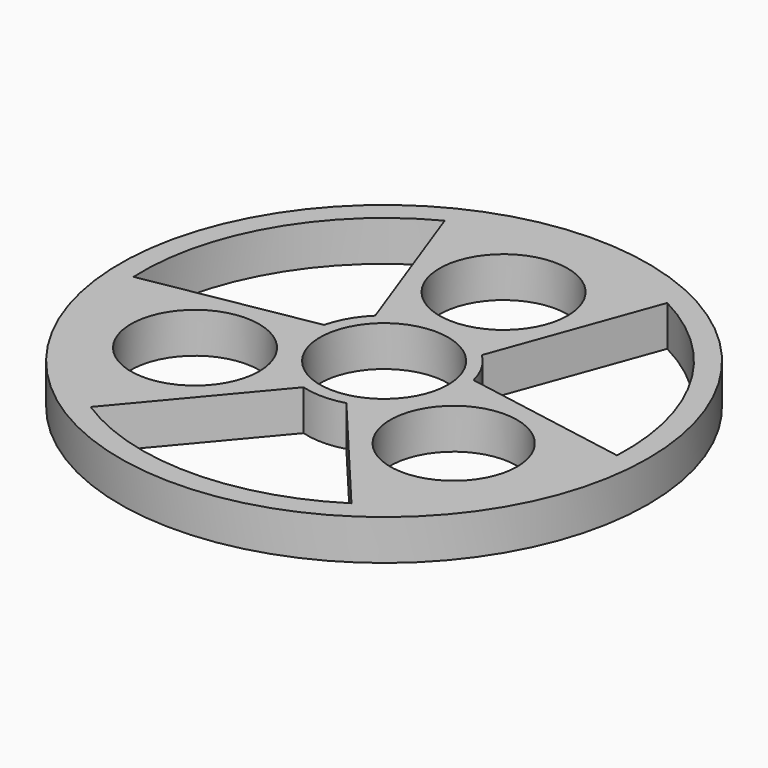
from build123d import *

# Parameters (mm, degrees)
F0_R     = 11.1
F0_R_2   = 10.983308
F1_DEPTH = 7
F2_R     = 45.72
F2_R_2   = 41.91
F3_DEPTH = 7


with BuildPart() as f1:
    # F0 (on Top) → F1 (new body)
    with BuildSketch(Plane.XY):
        with BuildLine():
            ThreePointArc((12.948403, 3.187646), (11.548449, 6.6675), (9.234784, 9.619823))
            Line((9.234784, 9.619823), (19.675505, 38.305468))
            ThreePointArc((19.675505, 38.305468), (0, 43.586091), (-19.675505, 38.305468))
            Line((-19.675505, 38.305468), (-9.234784, 9.619823))
            ThreePointArc((-9.234784, 9.619823), (-11.548449, 6.6675), (-12.948403, 3.187646))
            Line((-12.948403, 3.187646), (-43.011261, -2.113247))
            ThreePointArc((-43.011261, -2.113247), (-37.746662, -21.793046), (-23.335756, -36.192221))
            Line((-23.335756, -36.192221), (-3.713619, -12.807469))
            ThreePointArc((-3.713619, -12.807469), (0, -13.335), (3.713619, -12.807469))
            Line((3.713619, -12.807469), (23.335756, -36.192221))
            ThreePointArc((23.335756, -36.192221), (37.746662, -21.793046), (43.011261, -2.113247))
            Line((43.011261, -2.113247), (12.948403, 3.187646))
        make_face()
        with Locations((-22.404077, -12.935)):
            Circle(F0_R, mode=Mode.SUBTRACT)
        with BuildLine():
            ThreePointArc((8.382, 7.276818), (10.398322, 3.883928), (11.1, 0))
            ThreePointArc((11.1, 0), (-10.398322, -3.883928), (8.382, 7.276818))
        make_face(mode=Mode.SUBTRACT)
        with Locations((22.404077, -12.935)):
            Circle(F0_R_2, mode=Mode.SUBTRACT)
        with Locations((0, 25.87)):
            Circle(F0_R, mode=Mode.SUBTRACT)
    extrude(amount=F1_DEPTH)

    # F2 (on Top) → F3 (join)
    with BuildSketch(Plane.XY):
        Circle(F2_R)
        Circle(F2_R_2, mode=Mode.SUBTRACT)
    extrude(amount=F3_DEPTH)


solid = f1.part
